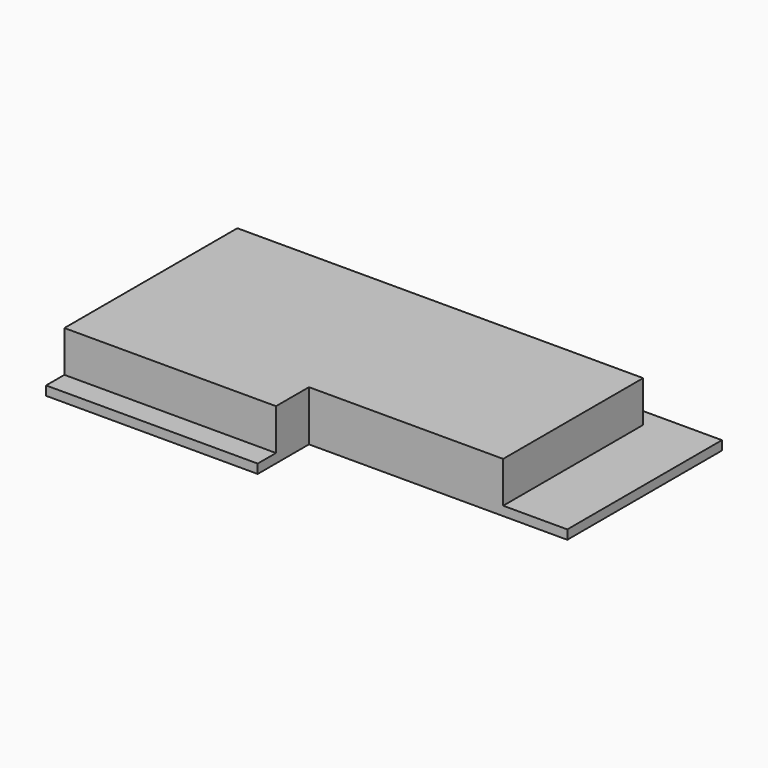
from build123d import *

# Parameters (mm, degrees)
F1_DEPTH = 1
F3_DEPTH = 4.5


with BuildPart() as f1:
    # F0 (on Top) → F1 (new body)
    with BuildSketch(Plane.XY):
        Polygon((-2.55, -10.55), (25.65, -10.55), (25.65, 10.55), (-2.55, 10.55), (-25.65, 10.55), (-25.65, -10.55), (-25.65, -17.55), (-2.55, -17.55), align=None)
    extrude(amount=F1_DEPTH)

    # F2 (on face) → F3 (join)
    with BuildSketch(Plane.XY.offset(1)):
        Polygon((18.65, -10.55), (18.65, 8.55), (-25.65, 8.55), (-25.65, -15.05), (-2.55, -15.05), (-2.55, -10.55), align=None)
    extrude(amount=F3_DEPTH)


solid = f1.part
